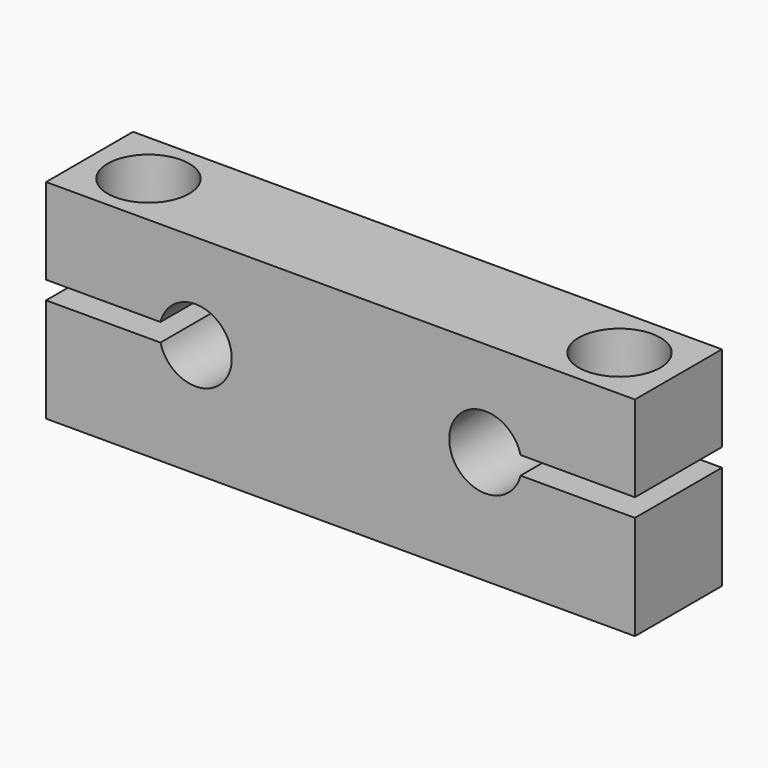
from build123d import *

# Parameters (mm, degrees)
CYLINDER002_R     = 2.5
CYLINDER002_DEPTH = 18
CYLINDER003_R     = 4.5
CYLINDER003_DEPTH = 5
CYLINDER_R        = 2.5
CYLINDER_DEPTH    = 18
CYLINDER001_R     = 4.5
CYLINDER001_DEPTH = 5
PAD_DEPTH         = 12


with BuildPart() as cilindro002:
    # Cylinder002 → Cylinder002 (new body)
    with BuildSketch(Plane.XY):
        Circle(CYLINDER002_R)
    extrude(amount=CYLINDER002_DEPTH)


with BuildPart() as obj1:
    # Cylinder003 → Cylinder003 (new body)
    with BuildSketch(Plane.XY.offset(18)):
        Circle(CYLINDER003_R)
    extrude(amount=CYLINDER003_DEPTH)

    # Fusion001: union Cilindro002
    add(cilindro002.part)


with BuildPart() as obj1_1:
    # Fusion001 placement: moved
    add(obj1.part.moved(Location((58.5, 6, 0))))


with BuildPart() as cilindro:
    # Cylinder → Cylinder (new body)
    with BuildSketch(Plane.XY):
        Circle(CYLINDER_R)
    extrude(amount=CYLINDER_DEPTH)


with BuildPart() as tornillos:
    # Cylinder001 → Cylinder001 (new body)
    with BuildSketch(Plane.XY.offset(18)):
        Circle(CYLINDER001_R)
    extrude(amount=CYLINDER001_DEPTH)

    # Fusion: union Cilindro
    add(cilindro.part)


with BuildPart() as tornillos_1:
    # Fusion placement: moved
    add(tornillos.part.moved(Location((6.5, 6, 0))))

    # Fusion002: union obj1
    add(obj1_1.part)


with BuildPart() as obj2:
    # Sketch → Pad (new body)
    with BuildSketch(Plane.XZ):
        with BuildLine():
            Line((0, 0), (0, 11.5))
            Line((0, 11.5), (12.627017, 11.5))
            ThreePointArc((12.627017, 11.5), (20.5, 12.5), (12.627017, 13.5))
            Line((0, 13.5), (12.627017, 13.5))
            Line((0, 13.5), (0, 23))
            Line((0, 23), (65, 23))
            Line((65, 23), (65, 13.5))
            Line((65, 13.5), (52.372983, 13.5))
            ThreePointArc((52.372983, 13.5), (44.5, 12.5), (52.372983, 11.5))
            Line((65, 11.5), (52.372983, 11.5))
            Line((65, 0), (65, 11.5))
            Line((0, 0), (65, 0))
        make_face()
    extrude(amount=-PAD_DEPTH)

    # Cut: cut Tornillos
    add(tornillos_1.part, mode=Mode.SUBTRACT)


solid = obj2.part
